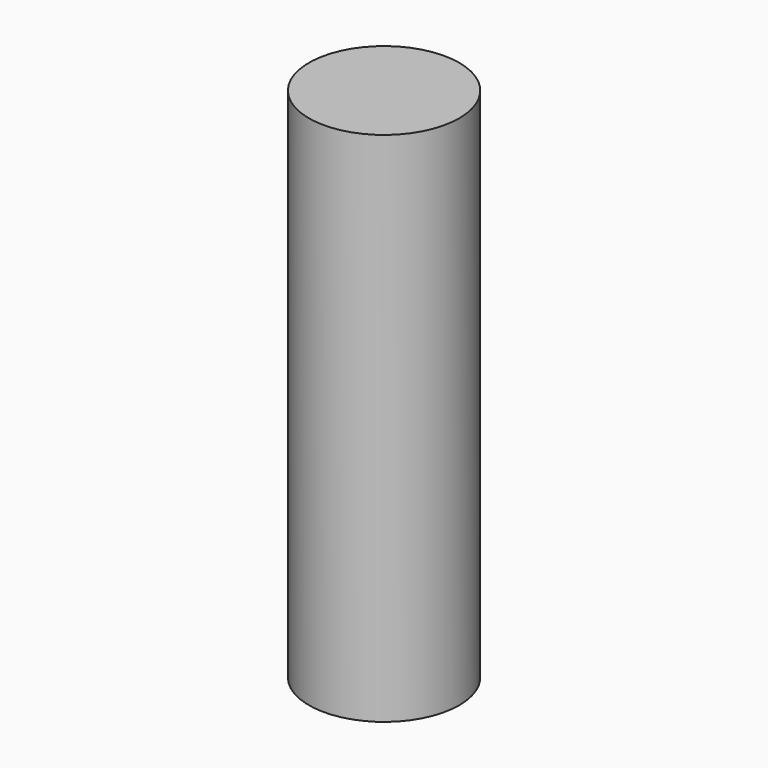
from build123d import *

# Parameters (mm, degrees)
SKETCH_R  = 10.182077
PAD_DEPTH = 70


with BuildPart() as part:
    # Sketch → Pad (new body)
    with BuildSketch(Plane.XY):
        with Locations((30.038755, 19.883455)):
            Circle(SKETCH_R)
    extrude(amount=PAD_DEPTH)


solid = part.part
